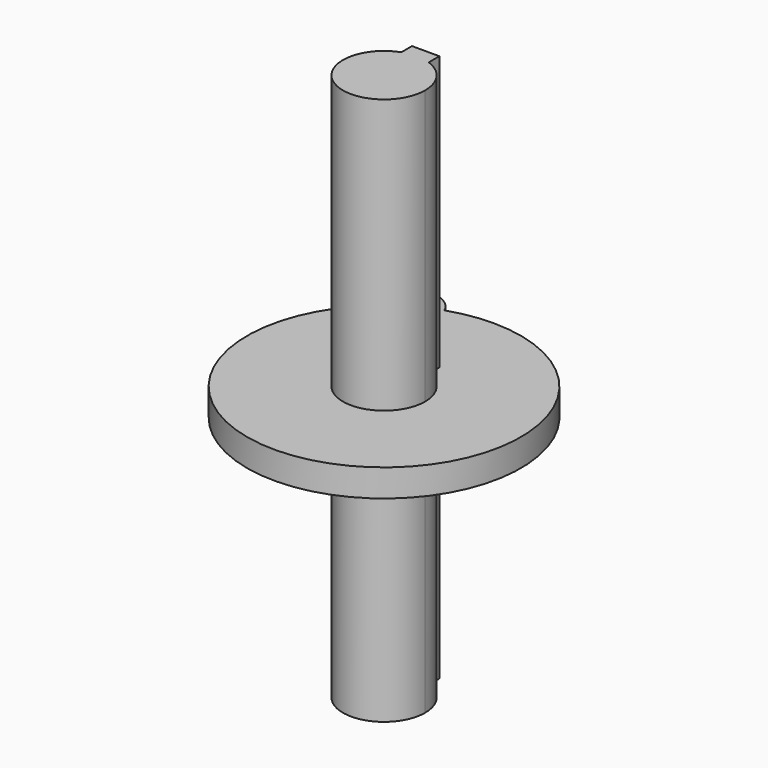
from build123d import *

# Parameters (mm, degrees)
F1_DEPTH = 5
F3_DEPTH = 100


with BuildPart() as f1:
    # F0 (on Top) → F1 (new body, symmetric)
    with BuildSketch(Plane.XY):
        with BuildLine():
            ThreePointArc((-15.8831560302, 47.410181971), (-30, 51.9615242271), (-33.1168439698, 37.4603075999))
            ThreePointArc((-33.1168439698, 37.4603075999), (17.7057140495, -46.7601078912), (0, 50))
            ThreePointArc((0, 50), (-8.0464557866, 49.3482983422), (-15.8831560302, 47.410181971))
        make_face()
    extrude(amount=F1_DEPTH, both=True)

    # F2 (on face) → F3 (join, symmetric)
    with BuildSketch(Plane.XY.offset(5)):
        with BuildLine():
            ThreePointArc((-5, 14.1421356237), (-8.6602540378, -12.2474487139), (15, 0))
            ThreePointArc((15, 0), (12.2474487139, 8.6602540378), (5, 14.1421356237))
            Line((5, 14.1421356237), (5, 11))
            Line((5, 11), (-5, 11))
            Line((-5, 11), (-5, 14.1421356237))
        make_face()
        with BuildLine():
            Line((5, 11), (5, 14.1421356237))
            ThreePointArc((5, 14.1421356237), (0, 15), (-5, 14.1421356237))
            Line((-5, 14.1421356237), (-5, 11))
            Line((-5, 11), (5, 11))
        make_face()
        with BuildLine():
            ThreePointArc((-5, 14.1421356237), (0, 15), (5, 14.1421356237))
            Line((5, 14.1421356237), (5, 19))
            Line((5, 19), (-5, 19))
            Line((-5, 19), (-5, 14.1421356237))
        make_face()
    extrude(amount=F3_DEPTH, both=True)


solid = f1.part
